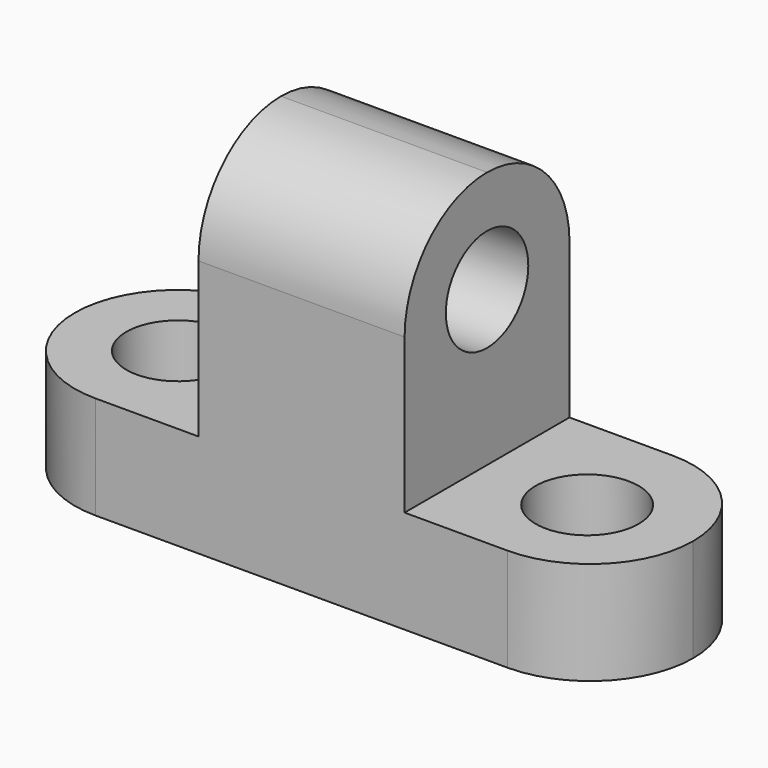
from build123d import *

# Parameters (mm, degrees)
F0_W     = 76.2
F0_H     = 44.45
F1_DEPTH = 25.4
F2_W     = 25.4
F2_H     = 31.75
F3_DEPTH = 25.4
F4_R     = 6.35
F5_DEPTH = 25.4
F6_R     = 6.35
F7_DEPTH = 25.4
F8_R     = 6.35
F9_DEPTH = 25.4


with BuildPart() as f1:
    # F0 (on Front) → F1 (new body)
    with BuildSketch(Plane.XZ):
        with Locations((38.1, 22.225)):
            Rectangle(F0_W, F0_H)
    extrude(amount=F1_DEPTH)

    # F2 (on face) → F3 (cut)
    with BuildSketch(Plane.XZ.offset(25.4)):
        with Locations((12.7, 28.575)):
            Rectangle(F2_W, F2_H)
        with Locations((63.5, 28.575)):
            Rectangle(F2_W, F2_H)
    extrude(amount=-F3_DEPTH, mode=Mode.SUBTRACT)

    # F4 (on face) → F5 (cut)
    with BuildSketch(Plane.YZ.offset(50.8)):
        with Locations((-12.7, 31.75)):
            Circle(F4_R)
        with BuildLine():
            ThreePointArc((-12.7, 44.45), (-3.719744, 40.730256), (0, 31.75))
            Line((0, 31.75), (0, 44.45))
            Line((0, 44.45), (-12.7, 44.45))
        make_face()
        with BuildLine():
            ThreePointArc((-25.4, 31.75), (-21.680256, 40.730256), (-12.7, 44.45))
            Line((-12.7, 44.45), (-25.4, 44.45))
            Line((-25.4, 44.45), (-25.4, 31.75))
        make_face()
    extrude(amount=-F5_DEPTH, mode=Mode.SUBTRACT)

    # F6 (on face) → F7 (cut)
    with BuildSketch(Plane.XY.offset(12.7)):
        with Locations((12.7, -12.7)):
            Circle(F6_R)
        with BuildLine():
            ThreePointArc((12.7, -25.4), (3.719744, -21.680256), (0, -12.7))
            Line((0, -12.7), (0, -25.4))
            Line((0, -25.4), (12.7, -25.4))
        make_face()
        with BuildLine():
            ThreePointArc((0, -12.7), (3.719744, -3.719744), (12.7, 0))
            Line((12.7, 0), (0, 0))
            Line((0, 0), (0, -12.7))
        make_face()
    extrude(amount=-F7_DEPTH, mode=Mode.SUBTRACT)

    # F8 (on face) → F9 (cut)
    with BuildSketch(Plane.XY.offset(12.7)):
        with BuildLine():
            ThreePointArc((63.508526, 0), (72.48327, -3.722758), (76.2, -12.7))
            Line((76.2, -12.7), (76.2, 0))
            Line((76.2, 0), (63.508526, 0))
        make_face()
        with BuildLine():
            ThreePointArc((76.2, -12.7), (72.48327, -21.677242), (63.508526, -25.4))
            Line((63.508526, -25.4), (76.2, -25.4))
            Line((76.2, -25.4), (76.2, -12.7))
        make_face()
        with Locations((63.508526, -13.165283)):
            Circle(F8_R)
    extrude(amount=-F9_DEPTH, mode=Mode.SUBTRACT)


solid = f1.part
